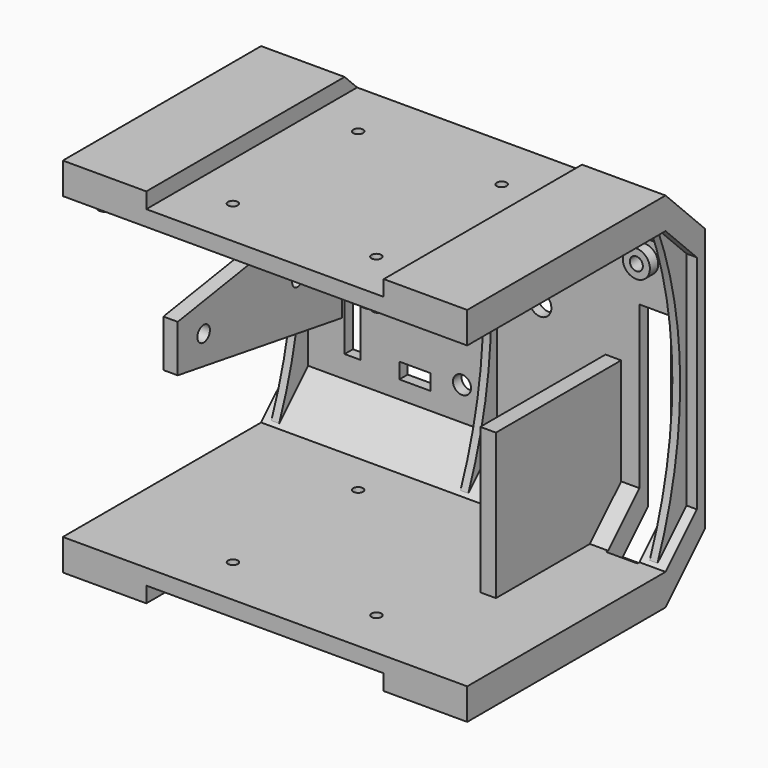
from build123d import *

# Parameters (mm, degrees)
PAD_DEPTH           = 155
SKETCH001_R         = 2.5
SKETCH001_R_2       = 4.25
SKETCH001_R_3       = 3.45
SKETCH001_W         = 81.985035
SKETCH001_H         = 12
SKETCH001_W_2       = 6
POCKET_DEPTH        = 20
PAD001_DEPTH        = 6
SKETCH010_R         = 3.006811
SKETCH010_R_2       = 2.576879
PAD007_DEPTH        = 5.5
SKETCH011_W         = 6
SKETCH011_H         = 91
POCKET007_DEPTH     = 200
SKETCH012_R         = 1.875
POCKET008_DEPTH     = 200
SKETCH013_R         = 3.2
SKETCH013_R_2       = 0.1
PAD008_DEPTH        = 4
SKETCH014_R         = 5.2
SKETCH014_R_2       = 2.5
PAD009_DEPTH        = 8
PAD010_DEPTH        = 3
LINEARPATTERN_COUNT = 3
LINEARPATTERN_PITCH = 72.5
CHAMFER_SIZE2       = 3.8
CHAMFER_SIZE        = 2


with BuildPart() as part:
    # Sketch → Pad (new body)
    with BuildSketch(Plane.YZ):
        Polygon((-48.736008, 3), (46.263992, 3), (61.263992, -12), (61.263992, -97), (46.263992, -112), (-48.736008, -112), (-48.736008, -124), (46.263992, -124), (65.263992, -105), (65.263992, -4), (46.263992, 15), (-48.736008, 15), align=None)
    extrude(amount=-PAD_DEPTH)

    # Sketch001 (on Face9 of Pad) → Pocket (cut)
    with BuildSketch(Plane.ZX.offset(65.263992)):
        with Locations((-19, -20)):
            Circle(SKETCH001_R)
        with Locations((-19, -60)):
            Circle(SKETCH001_R)
        with Locations((-19, -100)):
            Circle(SKETCH001_R)
        with Locations((-47.23029, -60)):
            Circle(SKETCH001_R_2)
        with Locations((-47.23029, -90)):
            Circle(SKETCH001_R_2)
        with Locations((-84.23029, -60)):
            Circle(SKETCH001_R_3)
        with Locations((-84.23029, -90)):
            Circle(SKETCH001_R_3)
        with Locations((-76.007482, -16)):
            Rectangle(SKETCH001_W, SKETCH001_H)
        Polygon((-16.5, -123), (-16.5, -135), (-88.5, -135), (-88.5, -129), (-70.5, -129), (-70.5, -126), (-52.5, -126), (-52.5, -123), (-34.5, -123), align=None)
        with Locations((-87.23029, -41.973526)):
            Rectangle(SKETCH001_W_2, SKETCH001_H)
        with Locations((-87.23029, -108.026474)):
            Rectangle(SKETCH001_W_2, SKETCH001_H)
    extrude(amount=-POCKET_DEPTH, mode=Mode.SUBTRACT)

    # Sketch002 (on Face5 of Pocket) → Pad001 (join)
    with BuildSketch(Plane(origin=(-35, 0, 0), x_dir=(0, 1, 0), z_dir=(-1, 0, 0))):
        Polygon((61.263992, 56.149231), (61.263992, 97), (46.263992, 112), (1.263992, 112), (1.263992, 56.149231), align=None)
    extrude(amount=-PAD001_DEPTH)

    # Sketch010 (on Face5 of Pad001) → Pad007 (join)
    with BuildSketch(Plane(origin=(-136, 0, 0), x_dir=(0, 1, 0), z_dir=(-1, 0, 0))):
        Polygon((-17.423706, 64.031371), (61.263992, 76.63363), (61.263992, 33.370614), (-17.423706, 45.972874), align=None)
        with Locations((-5.011436, 55.002122)):
            Circle(SKETCH010_R, mode=Mode.SUBTRACT)
        with Locations((39.975639, 55.002122)):
            Circle(SKETCH010_R_2, mode=Mode.SUBTRACT)
    extrude(amount=PAD007_DEPTH)

    # Sketch011 (on Face2 of Pad007) → Pocket007 (cut)
    with BuildSketch(Plane(origin=(0, -48.736008, 0), x_dir=(0, 0, -1), z_dir=(0, -1, 0))):
        with Locations((-12, -77.5)):
            Rectangle(SKETCH011_W, SKETCH011_H)
        with Locations((121, -77.5)):
            Rectangle(SKETCH011_W, SKETCH011_H)
    extrude(amount=-POCKET007_DEPTH, mode=Mode.SUBTRACT)

    # Sketch012 (on Face8 of Pocket007) → Pocket008 (cut)
    with BuildSketch(Plane(origin=(0, 0, 9), x_dir=(0, -1, 0), z_dir=(0, 0, 1))):
        with Locations((-30.263992, -50)):
            Circle(SKETCH012_R)
        with Locations((29.736008, -50)):
            Circle(SKETCH012_R)
        with Locations((29.736008, -105)):
            Circle(SKETCH012_R)
        with Locations((-30.263992, -105)):
            Circle(SKETCH012_R)
    extrude(amount=-POCKET008_DEPTH, mode=Mode.SUBTRACT)

    # Sketch013 (on DatumPlane) → Pad008 (join)
    with BuildSketch(Plane.YX.offset(-3)):
        with Locations((34.904408, -145.100494)):
            Circle(SKETCH013_R)
        with Locations((34.904408, -145.100494)):
            Circle(SKETCH013_R_2, mode=Mode.SUBTRACT)
        with Locations((35.092834, -39.948879)):
            Circle(SKETCH013_R)
        with Locations((35.092834, -39.948879)):
            Circle(SKETCH013_R_2, mode=Mode.SUBTRACT)
        with Locations((-5.045681, -79.898949)):
            Circle(SKETCH013_R)
        with Locations((-5.045681, -79.898949)):
            Circle(SKETCH013_R_2, mode=Mode.SUBTRACT)
        with Locations((-40.19043, -145.100494)):
            Circle(SKETCH013_R)
        with Locations((-40.19043, -145.100494)):
            Circle(SKETCH013_R_2, mode=Mode.SUBTRACT)
        with Locations((-40.096222, -40.137306)):
            Circle(SKETCH013_R)
        with Locations((-40.096222, -40.137306)):
            Circle(SKETCH013_R_2, mode=Mode.SUBTRACT)
    extrude(amount=PAD008_DEPTH)

    # Sketch014 (on Face26 of Pad008) → Pad009 (join)
    with BuildSketch(Plane.ZX.offset(65.263992)):
        with Locations((-19, -20)):
            Circle(SKETCH014_R)
        with Locations((-19, -20)):
            Circle(SKETCH014_R_2, mode=Mode.SUBTRACT)
        with Locations((-19, -60)):
            Circle(SKETCH014_R)
        with Locations((-19, -60)):
            Circle(SKETCH014_R_2, mode=Mode.SUBTRACT)
        with Locations((-19, -100)):
            Circle(SKETCH014_R)
        with Locations((-19, -100)):
            Circle(SKETCH014_R_2, mode=Mode.SUBTRACT)
    extrude(amount=-PAD009_DEPTH)

    # Sketch015 (on DatumPlane) → Pad010 (join)
    with BuildSketch(Plane.YZ.offset(-4)):
        with BuildLine():
            ThreePointArc((46.952712, -112), (58.271814, -54.499966), (46.952367, 3))
            Line((61.263992, -12), (46.952367, 3))
            Line((61.263992, -12), (61.263992, -97.001692))
            Line((61.263992, -97.001692), (46.952712, -112))
        make_face()
    pad010 = extrude(amount=-PAD010_DEPTH)

    # LinearPattern: Pad010 ×3
    with Locations(*[(-i * LINEARPATTERN_PITCH, 0, 0) for i in range(1, LINEARPATTERN_COUNT)]):
        add(pad010)

    # Chamfer
    chamfer_edges = [part.edges().sort_by_distance(p)[0] for p in [
        (-40.137306, -43.296222, 3),
        (-79.898949, -8.245681, 3),
        (-145.100494, -43.39043, 3),
        (-145.100494, 31.704408, 3),
        (-39.948879, 31.892834, 3),
    ]]
    chamfer_side = part.faces().sort_by_distance((-77.361115, -1.220288, 3))[0]
    chamfer(chamfer_edges, length=CHAMFER_SIZE, length2=CHAMFER_SIZE2, reference=chamfer_side)


solid = part.part
